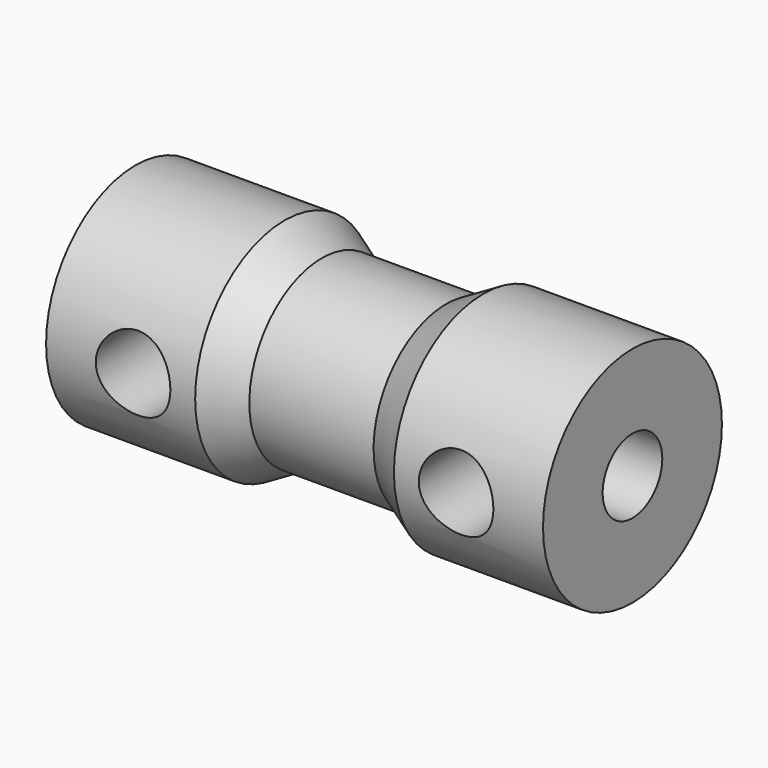
from build123d import *

# Parameters (mm, degrees)
F2_R          = 1.5
F3_DEPTH      = 4.501
F3_DEPTH_BACK = 4.501
F4_R          = 1.5
F5_DEPTH      = 25
F5_DEPTH_BACK = 25


with BuildPart() as f1:
    # F0 (on Front) → F1 (revolve)
    with BuildSketch(Plane.XZ):
        Polygon((10, 0), (-10, 0), (-10, -4.5), (-4, -4.5), (-2.5, -3.65), (0, -3.65), (2.5, -3.65), (4, -4.5), (10, -4.5), align=None)
    revolve(axis=Axis((0, 0, 0), (1, 0, 0)))

    # F2 (on Front) → F3 (cut, two sides)
    with BuildSketch(Plane.XZ) as f3_sk:
        with Locations((-6.5, 0)):
            Circle(F2_R)
        with Locations((6.5, 0)):
            Circle(F2_R)
    extrude(amount=-F3_DEPTH, mode=Mode.SUBTRACT)
    extrude(f3_sk.sketch, amount=F3_DEPTH_BACK, mode=Mode.SUBTRACT)

    # F4 (on face) → F5 (cut, two sides)
    with BuildSketch(Plane.YZ.offset(10)) as f5_sk:
        Circle(F4_R)
    extrude(amount=-F5_DEPTH, mode=Mode.SUBTRACT)
    extrude(f5_sk.sketch, amount=F5_DEPTH_BACK, mode=Mode.SUBTRACT)


solid = f1.part
